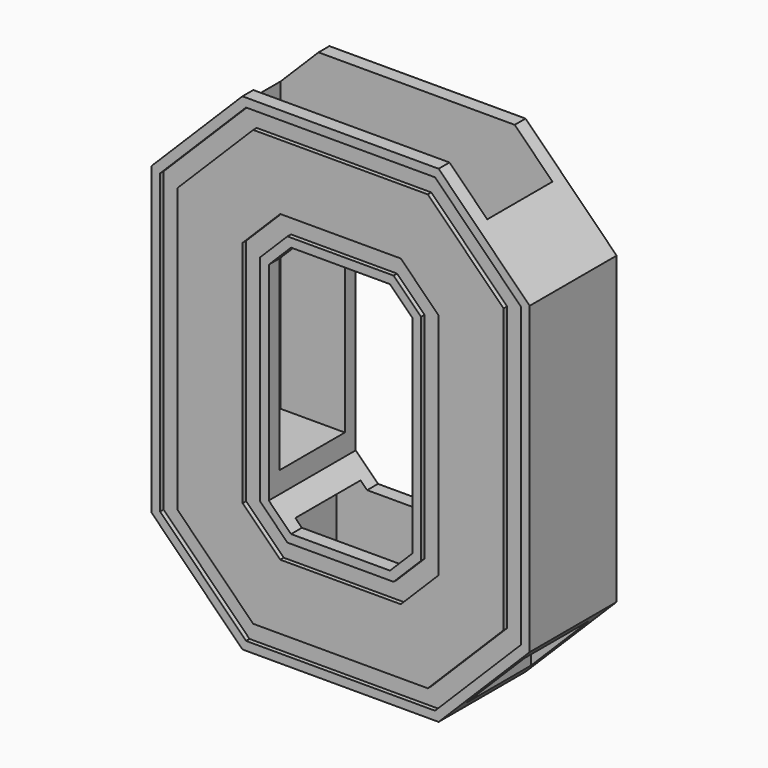
from build123d import *

# Parameters (mm, degrees)
F1_DEPTH = 12.7
F2_DEPTH = 0.508
F3_W     = 15.875
F3_H     = 4.7625
F4_DEPTH = 38.1
F5_W     = 9.388043
F5_H     = 4.7625
F5_W_2   = 6.856441
F5_H_2   = 9.525
F5_W_3   = 6.856442
F6_DEPTH = 14.478


with BuildPart() as f1:
    # F0 (on Front) → F1 (new body)
    with BuildSketch(Plane.XZ):
        Polygon((101.835918, 59.969447), (91.199405, 70.605959), (68.27643, 70.605959), (57.639918, 59.969447), (57.639918, 24.346472), (68.27643, 13.709959), (91.199405, 13.709959), (101.835918, 24.346472), align=None)
        Polygon((68.697271, 69.589959), (90.778564, 69.589959), (100.819918, 59.548606), (100.819918, 24.767313), (90.778564, 14.725959), (68.697271, 14.725959), (58.655918, 24.767313), (58.655918, 59.548606), align=None, mode=Mode.SUBTRACT)
        Polygon((100.819918, 59.548606), (90.778564, 69.589959), (68.697271, 69.589959), (58.655918, 59.548606), (58.655918, 24.767313), (68.697271, 14.725959), (90.778564, 14.725959), (100.819918, 24.767313), align=None)
        Polygon((69.538953, 67.557959), (89.936882, 67.557959), (98.787918, 58.706924), (98.787918, 25.608995), (89.936882, 16.757959), (69.538953, 16.757959), (60.687918, 25.608995), (60.687918, 58.706924), align=None, mode=Mode.SUBTRACT)
        Polygon((98.787918, 58.706924), (89.936882, 67.557959), (69.538953, 67.557959), (60.687918, 58.706924), (60.687918, 25.608995), (69.538953, 16.757959), (89.936882, 16.757959), (98.787918, 25.608995), align=None)
        Polygon((79.737918, 59.937959), (86.780575, 59.937959), (91.167918, 55.550616), (91.167918, 28.765302), (86.780575, 24.377959), (79.737918, 24.377959), (72.695261, 24.377959), (68.307918, 28.765302), (68.307918, 55.550616), (72.695261, 59.937959), align=None, mode=Mode.SUBTRACT)
        Polygon((79.737918, 57.905959), (79.737918, 59.937959), (72.695261, 59.937959), (68.307918, 55.550616), (68.307918, 28.765302), (72.695261, 24.377959), (79.737918, 24.377959), (79.737918, 26.409959), (73.536943, 26.409959), (70.339918, 29.606984), (70.339918, 54.708934), (73.536943, 57.905959), align=None)
        Polygon((79.737918, 56.889959), (79.737918, 57.905959), (73.536943, 57.905959), (70.339918, 54.708934), (70.339918, 29.606984), (73.536943, 26.409959), (79.737918, 26.409959), (79.737918, 27.425959), (73.957784, 27.425959), (71.355918, 30.027825), (71.355918, 54.288093), (73.957784, 56.889959), align=None)
        Polygon((85.938893, 57.905959), (79.737918, 57.905959), (79.737918, 56.889959), (85.518052, 56.889959), (88.119918, 54.288093), (88.119918, 30.027825), (85.518052, 27.425959), (79.737918, 27.425959), (79.737918, 26.409959), (85.938893, 26.409959), (89.135918, 29.606984), (89.135918, 54.708934), align=None)
        Polygon((91.167918, 55.550616), (86.780575, 59.937959), (79.737918, 59.937959), (79.737918, 57.905959), (85.938893, 57.905959), (89.135918, 54.708934), (89.135918, 29.606984), (85.938893, 26.409959), (79.737918, 26.409959), (79.737918, 24.377959), (86.780575, 24.377959), (91.167918, 28.765302), align=None)
    extrude(amount=-F1_DEPTH)

    # F0 (on Front) → F2 (cut)
    with BuildSketch(Plane.XZ):
        Polygon((100.819918, 59.548606), (90.778564, 69.589959), (68.697271, 69.589959), (58.655918, 59.548606), (58.655918, 24.767313), (68.697271, 14.725959), (90.778564, 14.725959), (100.819918, 24.767313), align=None)
        Polygon((69.538953, 67.557959), (89.936882, 67.557959), (98.787918, 58.706924), (98.787918, 25.608995), (89.936882, 16.757959), (69.538953, 16.757959), (60.687918, 25.608995), (60.687918, 58.706924), align=None, mode=Mode.SUBTRACT)
        Polygon((79.737918, 57.905959), (79.737918, 59.937959), (72.695261, 59.937959), (68.307918, 55.550616), (68.307918, 28.765302), (72.695261, 24.377959), (79.737918, 24.377959), (79.737918, 26.409959), (73.536943, 26.409959), (70.339918, 29.606984), (70.339918, 54.708934), (73.536943, 57.905959), align=None)
        Polygon((91.167918, 55.550616), (86.780575, 59.937959), (79.737918, 59.937959), (79.737918, 57.905959), (85.938893, 57.905959), (89.135918, 54.708934), (89.135918, 29.606984), (85.938893, 26.409959), (79.737918, 26.409959), (79.737918, 24.377959), (86.780575, 24.377959), (91.167918, 28.765302), align=None)
    extrude(amount=-F2_DEPTH, mode=Mode.SUBTRACT)

    # F3 (on face) → F4 (cut)
    with BuildSketch(Plane.XY.offset(70.605959)):
        with Locations((71.800418, 8.73125)):
            Rectangle(F3_W, F3_H)
        Polygon((95.612918, 11.1125), (79.737918, 11.1125), (79.737918, 6.35), (79.737918, 1.5875), (95.612918, 1.5875), align=None)
        with Locations((71.800418, 3.96875)):
            Rectangle(F3_W, F3_H)
    extrude(amount=-F4_DEPTH, mode=Mode.SUBTRACT)

    # F5 (on face) → F6 (cut)
    with BuildSketch(Plane(origin=(0, 0, 13.709959), x_dir=(1, 0, 0), z_dir=(0, 0, -1))):
        with Locations((75.043896, -3.96875)):
            Rectangle(F5_W, F5_H)
        with Locations((84.431939, -3.96875)):
            Rectangle(F5_W, F5_H)
        with Locations((75.043896, -8.73125)):
            Rectangle(F5_W, F5_H)
        with Locations((84.431939, -8.73125)):
            Rectangle(F5_W, F5_H)
        with Locations((62.940418, -6.35)):
            Rectangle(F5_W_2, F5_H_2)
        with Locations((96.535417, -6.35)):
            Rectangle(F5_W_3, F5_H_2)
    extrude(amount=-F6_DEPTH, mode=Mode.SUBTRACT)


solid = f1.part
